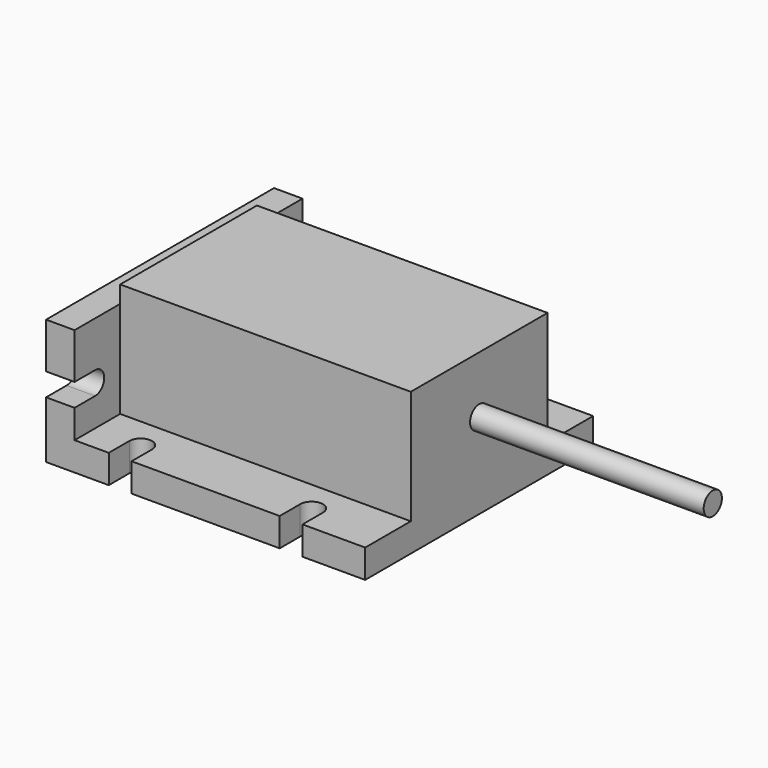
from build123d import *

# Parameters (mm, degrees)
F0_W      = 56
F0_H      = 50
F1_DEPTH  = 5
F3_DEPTH  = 5
F4_W      = 5
F4_H      = 50
F5_DEPTH  = 17
F6_W      = 51
F6_H      = 30
F7_DEPTH  = 20
F9_DEPTH  = 5
F10_R     = 2
F11_DEPTH = 41


with BuildPart() as f1:
    # F0 (on Top) → F1 (new body)
    with BuildSketch(Plane.XY):
        Rectangle(F0_W, F0_H)
    extrude(amount=F1_DEPTH)

    # F2 (on face) → F3 (cut, through all)
    with BuildSketch(Plane.XY.offset(5)):
        with BuildLine():
            Line((17, -25), (17, -20.5))
            ThreePointArc((17, -20.5), (15, -18.5), (13, -20.5))
            Line((13, -20.5), (13, -25))
            Line((13, -25), (17, -25))
        make_face()
        with BuildLine():
            ThreePointArc((13, 20.5), (15, 18.5), (17, 20.5))
            Line((17, 20.5), (17, 25))
            Line((17, 25), (13, 25))
            Line((13, 25), (13, 20.5))
        make_face()
        with BuildLine():
            Line((-17, 25), (-17, 20.5))
            ThreePointArc((-17, 20.5), (-15, 18.5), (-13, 20.5))
            Line((-13, 20.5), (-13, 25))
            Line((-13, 25), (-17, 25))
        make_face()
        with BuildLine():
            ThreePointArc((-13, -20.5), (-15, -18.5), (-17, -20.5))
            Line((-17, -20.5), (-17, -25))
            Line((-17, -25), (-13, -25))
            Line((-13, -25), (-13, -20.5))
        make_face()
    extrude(amount=-F3_DEPTH, mode=Mode.SUBTRACT)

    # F4 (on face) → F5 (join)
    with BuildSketch(Plane.XY.offset(5)):
        with Locations((-25.5, 0)):
            Rectangle(F4_W, F4_H)
    extrude(amount=F5_DEPTH)

    # F6 (on face) → F7 (join)
    with BuildSketch(Plane.XY.offset(5)):
        with Locations((2.5, 0)):
            Rectangle(F6_W, F6_H)
    extrude(amount=F7_DEPTH)

    # F8 (on face) → F9 (cut, through all)
    with BuildSketch(Plane.YZ.offset(-23)):
        with BuildLine():
            Line((-25, 10), (-20.5, 10))
            ThreePointArc((-20.5, 10), (-18.5, 12), (-20.5, 14))
            Line((-20.5, 14), (-25, 14))
            Line((-25, 14), (-25, 10))
        make_face()
        with BuildLine():
            ThreePointArc((20.5, 14), (18.5, 12), (20.5, 10))
            Line((20.5, 10), (25, 10))
            Line((25, 10), (25, 14))
            Line((25, 14), (20.5, 14))
        make_face()
    extrude(amount=-F9_DEPTH, mode=Mode.SUBTRACT)

    # F10 (on face) → F11 (join)
    with BuildSketch(Plane.YZ.offset(28)):
        with Locations((0, 15)):
            Circle(F10_R)
    extrude(amount=F11_DEPTH)


solid = f1.part
